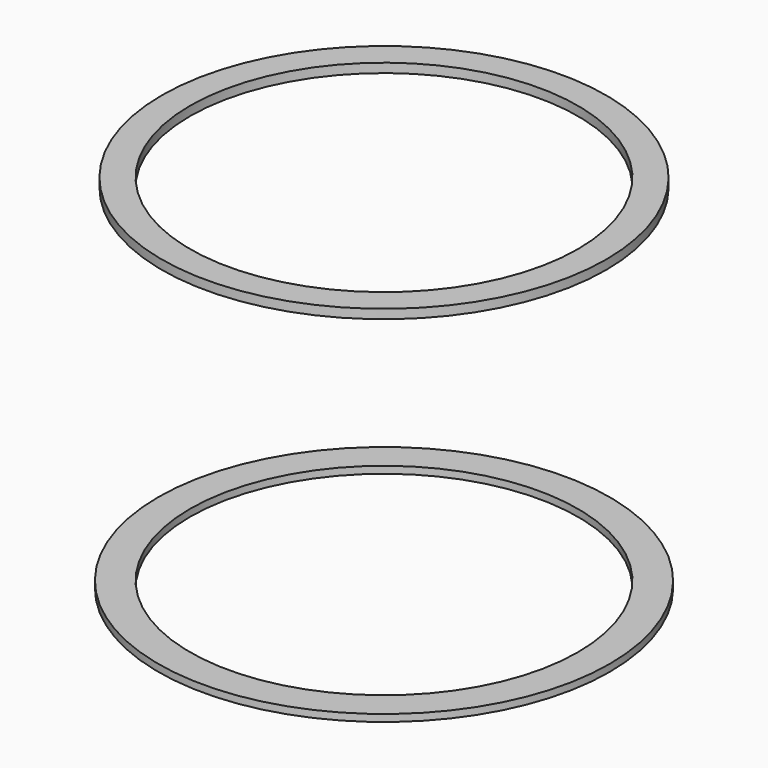
from build123d import *

# Parameters (mm, degrees)
F0_R     = 16
F0_R_2   = 13.75
F1_DEPTH = 0.5
F3_R     = 15.75
F3_R_2   = 13.75
F4_DEPTH = 0.65


with BuildPart() as f1:
    # F0 (on Top) → F1 (new body)
    with BuildSketch(Plane.XY):
        Circle(F0_R)
        Circle(F0_R_2, mode=Mode.SUBTRACT)
    extrude(amount=F1_DEPTH)


with BuildPart() as f4:
    # F3 (on offset) → F4 (new body)
    with BuildSketch(Plane.XY.offset(25)):
        Circle(F3_R)
        Circle(F3_R_2, mode=Mode.SUBTRACT)
    extrude(amount=F4_DEPTH)


solid = Compound([f1.part, f4.part])
